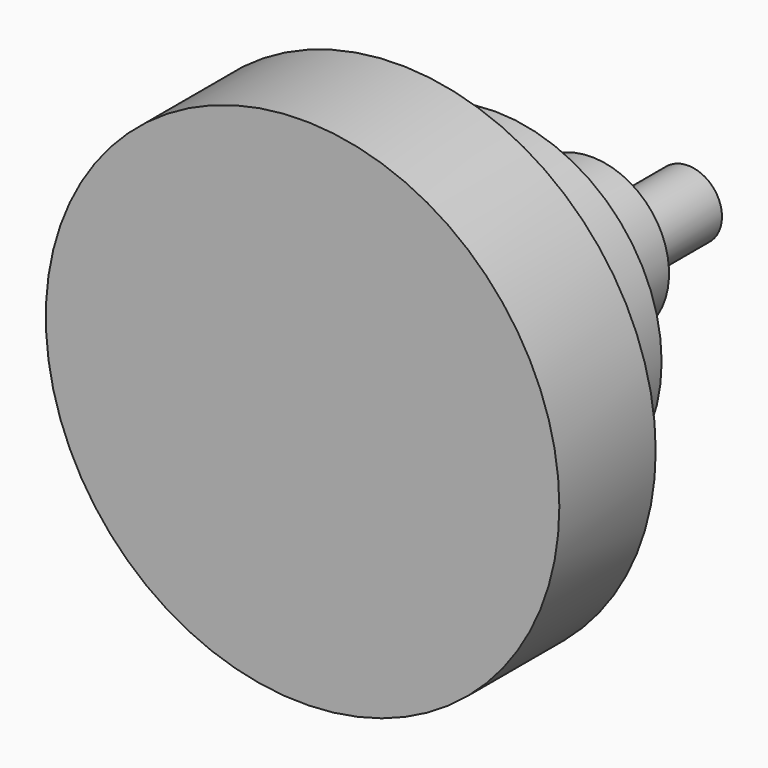
from build123d import *

# Parameters (mm, degrees)
F0_R     = 54.15088
F1_DEPTH = 25.4
F2_R     = 35.080645
F3_DEPTH = 25.4
F4_R     = 16.327777
F5_DEPTH = 25.4
F6_R     = 7.16725
F7_DEPTH = 25.4


with BuildPart() as f1:
    # F0 (on Front) → F1 (new body)
    with BuildSketch(Plane.XZ):
        Circle(F0_R)
    extrude(amount=F1_DEPTH)

    # F2 (on face) → F3 (join)
    with BuildSketch(Plane(origin=(0, 0, 0), x_dir=(-1, 0, 0), z_dir=(0, 1, 0))):
        Circle(F2_R)
    extrude(amount=F3_DEPTH)

    # F4 (on face) → F5 (join)
    with BuildSketch(Plane(origin=(0, 25.4, 0), x_dir=(-1, 0, 0), z_dir=(0, 1, 0))):
        Circle(F4_R)
    extrude(amount=F5_DEPTH)

    # F6 (on face) → F7 (join)
    with BuildSketch(Plane(origin=(0, 50.8, 0), x_dir=(-1, 0, 0), z_dir=(0, 1, 0))):
        with Locations((0, -2.772863)):
            Circle(F6_R)
    extrude(amount=F7_DEPTH)


solid = f1.part
